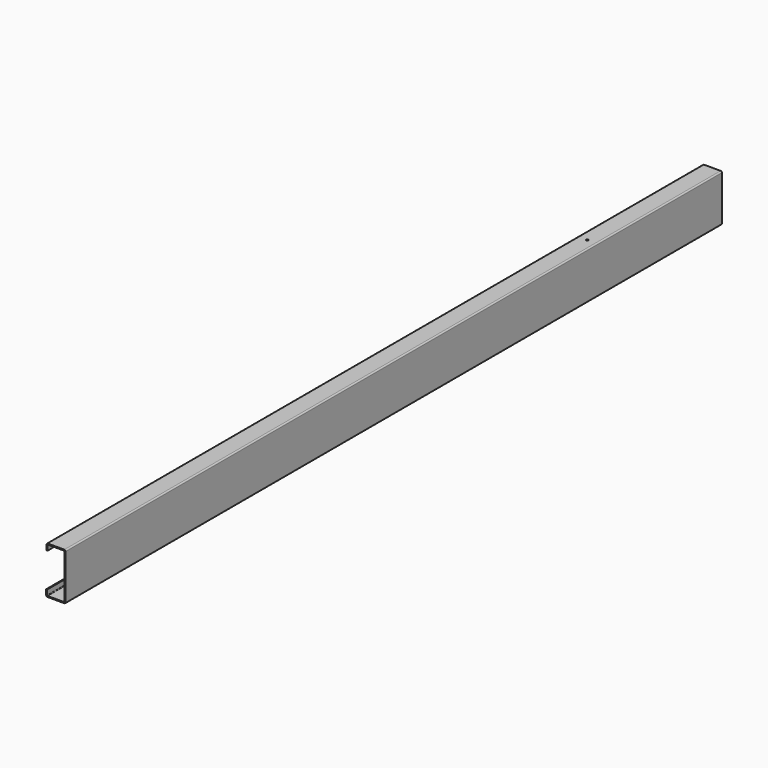
from build123d import *

# Parameters (mm, degrees)
F1_DEPTH = 2438.4
F3_DEPTH = 3.175


with BuildPart() as f1:
    # F0 (on Front) → F1 (new body)
    with BuildSketch(Plane.XZ):
        with BuildLine():
            Line((-10.545293, -75.111254), (-10.545293, -60.696754))
            Line((-10.545293, -60.696754), (-13.593293, -60.696754))
            Line((-13.593293, -60.696754), (-13.593293, -75.111254))
            ThreePointArc((-13.593293, -75.111254), (-12.235586, -78.389048), (-8.957793, -79.746754))
            Line((-8.957793, -79.746754), (40.734386, -79.746754))
            ThreePointArc((40.734386, -79.746754), (43.428463, -78.630831), (44.544386, -75.936754))
            Line((44.544386, -75.936754), (44.544386, 56.836361))
            ThreePointArc((44.544386, 56.836361), (43.428463, 59.530438), (40.734386, 60.646361))
            Line((40.734386, 60.646361), (-8.324698, 60.646361))
            ThreePointArc((-8.324698, 60.646361), (-11.018774, 59.530438), (-12.134698, 56.836361))
            Line((-12.134698, 56.836361), (-12.134698, 41.596361))
            Line((-12.134698, 41.596361), (-9.086698, 41.596361))
            Line((-9.086698, 41.596361), (-9.086698, 56.836361))
            ThreePointArc((-9.086698, 56.836361), (-8.863513, 57.375176), (-8.324698, 57.598361))
            Line((-8.324698, 57.598361), (40.734386, 57.598361))
            ThreePointArc((40.734386, 57.598361), (41.273202, 57.375176), (41.496386, 56.836361))
            Line((41.496386, 56.836361), (41.496386, -75.936754))
            ThreePointArc((41.496386, -75.936754), (41.273202, -76.47557), (40.734386, -76.698754))
            Line((40.734386, -76.698754), (-8.957793, -76.698754))
            ThreePointArc((-8.957793, -76.698754), (-10.080325, -76.233786), (-10.545293, -75.111254))
        make_face()
    extrude(amount=F1_DEPTH)

    # F2 (on face) → F3 (cut)
    with BuildSketch(Plane.XY.offset(60.646361)):
        with BuildLine():
            ThreePointArc((19.379844, -464.718791), (18.449908, -462.473726), (16.204844, -461.543791))
            ThreePointArc((16.204844, -461.543791), (13.95978, -466.963855), (19.379844, -464.718791))
        make_face()
    extrude(amount=-F3_DEPTH, mode=Mode.SUBTRACT)


solid = f1.part
